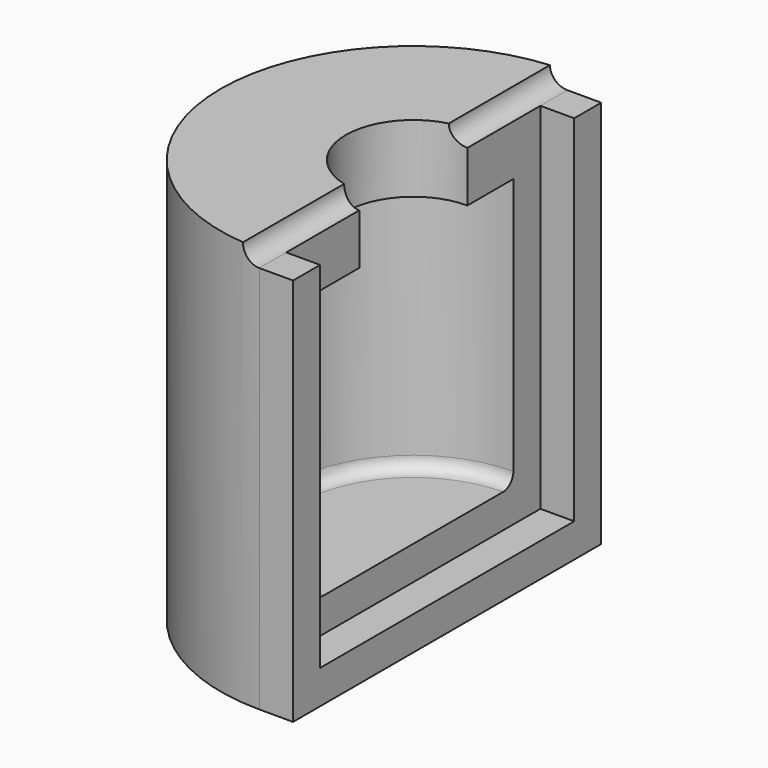
from build123d import *

# Parameters (mm, degrees)
F1_ANGLE_BACK = 90
F1_ANGLE      = 180
F2_R          = 2.5
F3_DEPTH      = 28.501
F3_DEPTH_BACK = 28.501
F4_R          = 1.905
F6_DEPTH      = 5


with BuildPart() as f1:
    # F0 (on Front) → F1 (revolve)
    with BuildSketch(Plane.XZ, mode=Mode.PRIVATE) as f1_sk:
        Polygon((-18.5, 0), (0, 0), (0, 10), (-18.5, 10), (-18.5, 50), (-10, 50), (-10, 60), (-18.5, 60), (-28.5, 60), (-28.5, 0), align=None)
    revolve(f1_sk.sketch.rotate(Axis((0, 0, 5), (0, 0, 1)), -F1_ANGLE_BACK), axis=Axis((0, 0, 5), (0, 0, 1)), revolution_arc=F1_ANGLE)

    # F2 (on Front) → F3 (cut, two sides)
    with BuildSketch(Plane.XZ) as f3_sk:
        with Locations((0, 60)):
            Circle(F2_R)
    extrude(amount=-F3_DEPTH, mode=Mode.SUBTRACT)
    extrude(f3_sk.sketch, amount=F3_DEPTH_BACK, mode=Mode.SUBTRACT)

    # F4
    f4_edges = [f1.edges().sort_by_distance(p)[0] for p in [
        (-18.5, 0, 10),
    ]]
    fillet(f4_edges, radius=F4_R)

    # F5 (on face) → F6 (join)
    with BuildSketch(Plane.YZ):
        Polygon((-23.5, 57.5), (-28.5, 57.5), (-28.5, 0), (28.5, 0), (28.5, 57.5), (23.5, 57.5), (23.5, 54.5), (23.5, 5), (-23.5, 5), (-23.5, 54.5), align=None)
    extrude(amount=F6_DEPTH)


solid = f1.part
